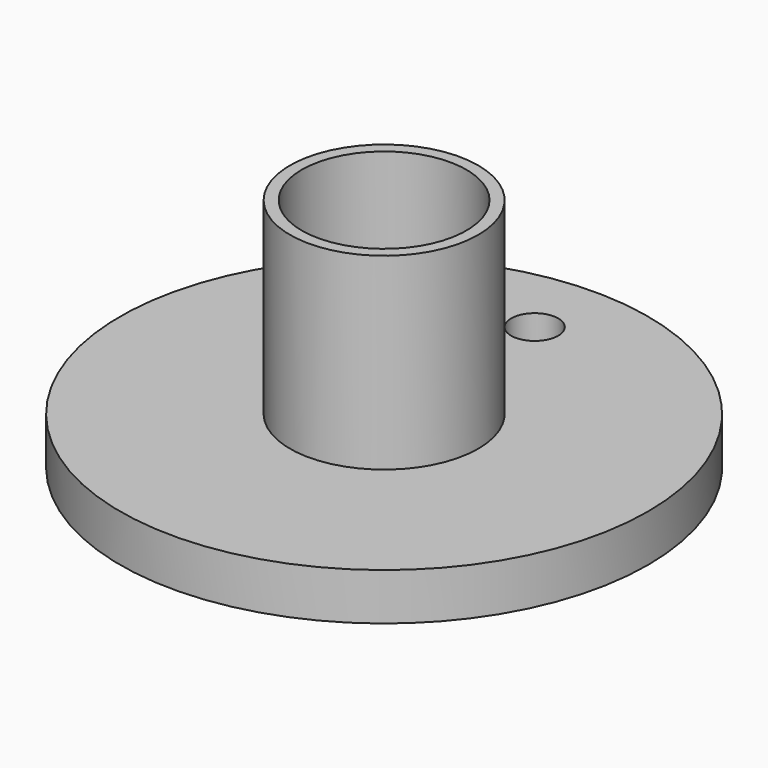
from build123d import *

# Parameters (mm, degrees)
F3_D = 22.225
F5_D = 6.35


with BuildPart() as f1:
    # F0 (on Front) → F1 (revolve)
    with BuildSketch(Plane.XZ):
        Polygon((0, 31.75), (0, 0), (35.615216, 0), (35.615216, 6.35), (12.7, 6.35), (12.7, 31.75), align=None)
    revolve(axis=Axis((0, 0, 15.875), (0, 0, -1)))

    # F3 (through all)
    with Locations(Plane.XY.offset(31.75)):
        with Locations((0, 0)):
            Hole(F3_D / 2)

    # F5 (through all)
    with Locations(Plane.XY.offset(6.35)):
        with Locations((0, 25.39767)):
            Hole(F5_D / 2)


solid = f1.part
